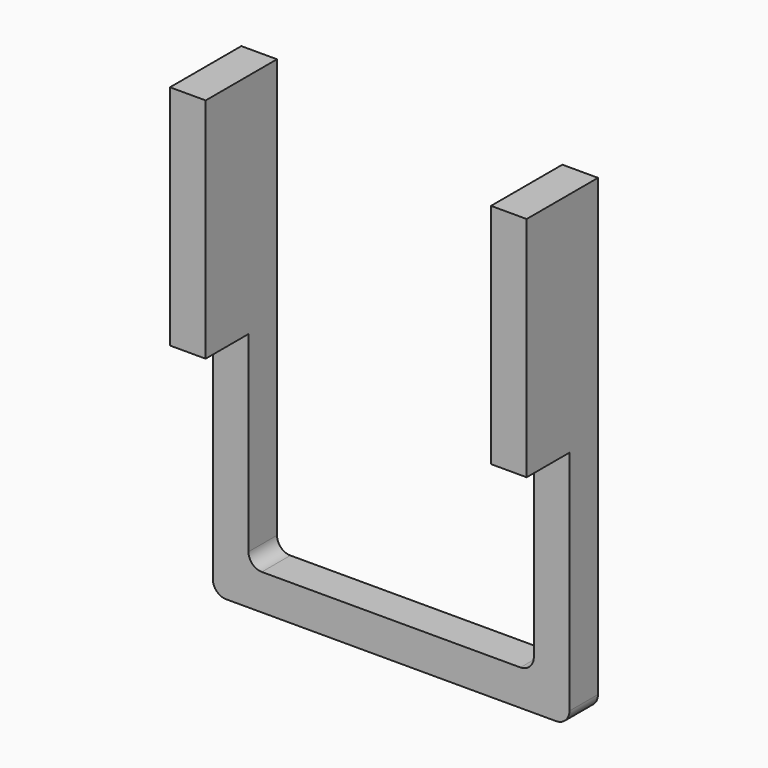
from build123d import *

# Parameters (mm, degrees)
F1_DEPTH = 0.8
F2_R     = 0.3
F3_W     = 0.8
F3_H     = 5.1
F4_DEPTH = 1.2


with BuildPart() as f1:
    # F0 (on Front) → F1 (new body)
    with BuildSketch(Plane.XZ):
        Polygon((3.2, 0), (0, 0), (0, -0.8), (4, -0.8), (4, 9.7), (3.2, 9.7), align=None)
    extrude(amount=F1_DEPTH)

    # F2
    f2_edges = [f1.edges().sort_by_distance(p)[0] for p in [
        (3.2, -0.4, 0),
        (4, -0.4, -0.8),
    ]]
    fillet(f2_edges, radius=F2_R)

    # F3 (on face) → F4 (join)
    with BuildSketch(Plane.XZ.offset(0.8)):
        with Locations((3.6, 7.15)):
            Rectangle(F3_W, F3_H)
    extrude(amount=F4_DEPTH)

    # F5: F1 across face


with BuildPart() as f1_1:
    add(f1.part)
    add(f1.part.mirror(Plane(origin=(0, -0.4, -0.4), x_dir=(0, -1, 0), z_dir=(-1, 0, 0))))


solid = f1_1.part
